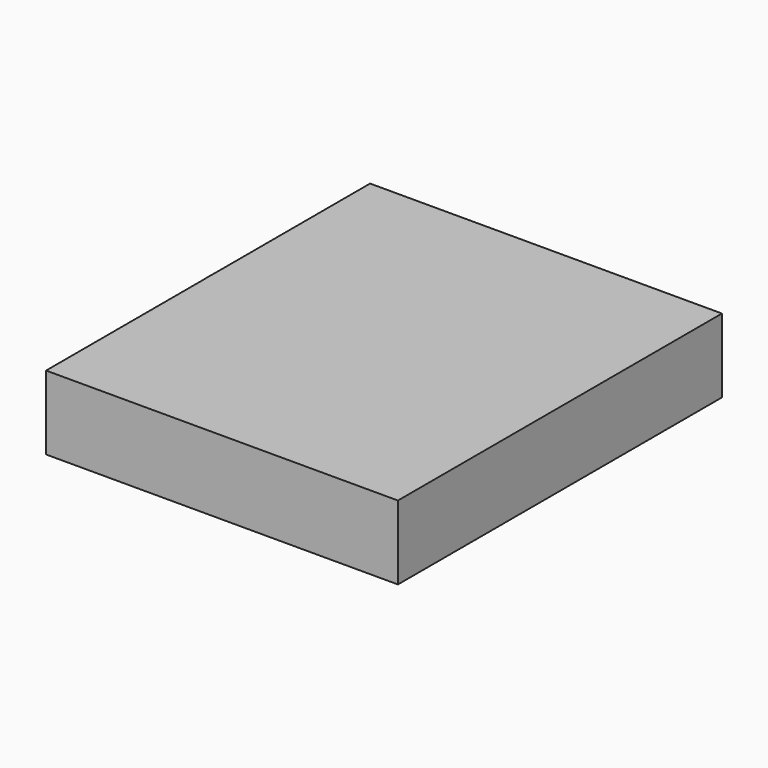
from build123d import *

# Parameters (mm, degrees)
F0_R     = 50.9118742665
F0_R_2   = 45.3260898151
F0_R_3   = 38.3012396281
F0_R_4   = 31.4355514218
F0_R_5   = 25.7992637313
F0_R_6   = 20.8854129491
F0_R_7   = 16.3976104854
F0_R_8   = 11.958068252
F0_R_9   = 10.0909633439
F0_R_10  = 7.4318520211
F0_R_11  = 5.2377671539
F0_R_12  = 3.3984551882
F1_DEPTH = 25.4


with BuildPart() as f1:
    # F0 (on Top) → F1 (new body)
    with BuildSketch(Plane.XY):
        with BuildLine():
            ThreePointArc((58.3244526722, 0), (1.2491040063, 58.3110754377), (-58.2709498703, 2.4976350262))
            Line((-58.2709498703, 2.4976350262), (-58.2709498703, -2.4976350262))
            ThreePointArc((-58.2709498703, -2.4976350262), (1.2491040063, -58.3110754377), (58.3244526722, 0))
        make_face()
        Circle(F0_R, mode=Mode.SUBTRACT)
        Circle(F0_R)
        Circle(F0_R_2, mode=Mode.SUBTRACT)
        Circle(F0_R_2)
        Circle(F0_R_3, mode=Mode.SUBTRACT)
        with BuildLine():
            Line((62.6444816589, 69.0761581063), (-58.2709498703, 69.0761581063))
            Line((-58.2709498703, 69.0761581063), (-58.2709498703, 2.4976350262))
            ThreePointArc((-58.2709498703, 2.4976350262), (1.2491040063, 58.3110754377), (58.3244526722, 0))
            ThreePointArc((58.3244526722, 0), (1.2491040063, -58.3110754377), (-58.2709498703, -2.4976350262))
            Line((-58.2709498703, -2.4976350262), (-58.2709498703, -70.1052248478))
            Line((-58.2709498703, -70.1052248478), (62.6444816589, -70.1052248478))
            Line((62.6444816589, -70.1052248478), (62.6444816589, 69.0761581063))
        make_face()
        Circle(F0_R_3)
        Circle(F0_R_4, mode=Mode.SUBTRACT)
        Circle(F0_R_4)
        Circle(F0_R_5, mode=Mode.SUBTRACT)
        Circle(F0_R_5)
        Circle(F0_R_6, mode=Mode.SUBTRACT)
        Circle(F0_R_6)
        Circle(F0_R_7, mode=Mode.SUBTRACT)
        Circle(F0_R_7)
        Circle(F0_R_8, mode=Mode.SUBTRACT)
        Circle(F0_R_8)
        Circle(F0_R_9, mode=Mode.SUBTRACT)
        Circle(F0_R_9)
        Circle(F0_R_10, mode=Mode.SUBTRACT)
        Circle(F0_R_10)
        Circle(F0_R_11, mode=Mode.SUBTRACT)
        Circle(F0_R_11)
        Circle(F0_R_12, mode=Mode.SUBTRACT)
        Circle(F0_R_12)
        with BuildLine():
            Line((-58.2709498703, -2.4976350262), (-58.2709498703, 2.4976350262))
            ThreePointArc((-58.2709498703, 2.4976350262), (-58.3244526722, 0), (-58.2709498703, -2.4976350262))
        make_face()
    extrude(amount=F1_DEPTH)


solid = f1.part
